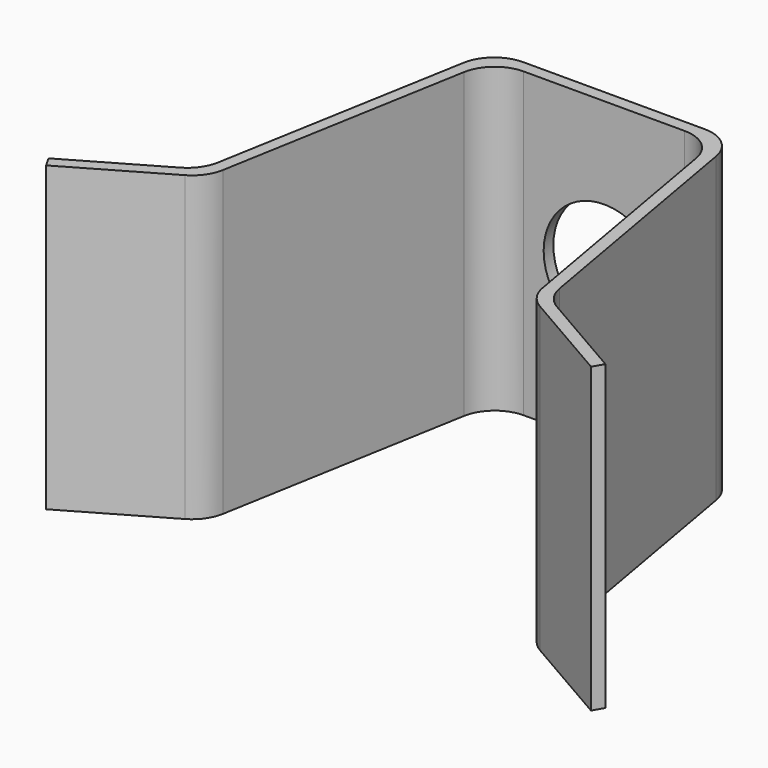
from build123d import *

# Parameters (mm, degrees)
F1_DEPTH = 25
F2_R     = 5
F3_DEPTH = 25


with BuildPart() as f1:
    # F0 (on Top) → F1 (new body)
    with BuildSketch(Plane.XY):
        with BuildLine():
            Line((7.482701, 22.981227), (0, 22.981227))
            Line((0, 22.981227), (-7.482701, 22.981227))
            ThreePointArc((-7.482701, 22.981227), (-9.411064, 22.27936), (-10.437124, 20.502171))
            Line((-10.437124, 20.502171), (-14.098284, -0.261297))
            ThreePointArc((-14.098284, -0.261297), (-14.595251, -1.461082), (-15.552707, -2.338429))
            Line((-15.552707, -2.338429), (-23.001458, -6.638967))
            Line((-23.001458, -6.638967), (-22.501458, -7.504993))
            Line((-22.501458, -7.504993), (-14.648873, -2.9713))
            ThreePointArc((-14.648873, -2.9713), (-13.691417, -2.093953), (-13.19445, -0.894169))
            Line((-13.19445, -0.894169), (-9.598025, 19.502171))
            ThreePointArc((-9.598025, 19.502171), (-8.571964, 21.27936), (-6.643601, 21.981227))
            Line((-6.643601, 21.981227), (0, 21.981227))
            Line((0, 21.981227), (6.643601, 21.981227))
            ThreePointArc((6.643601, 21.981227), (8.571964, 21.27936), (9.598025, 19.502171))
            Line((9.598025, 19.502171), (13.19445, -0.894169))
            ThreePointArc((13.19445, -0.894169), (13.691417, -2.093953), (14.648873, -2.9713))
            Line((14.648873, -2.9713), (22.501458, -7.504993))
            Line((22.501458, -7.504993), (23.001458, -6.638967))
            Line((23.001458, -6.638967), (15.552707, -2.338429))
            ThreePointArc((15.552707, -2.338429), (14.595251, -1.461082), (14.098284, -0.261297))
            Line((14.098284, -0.261297), (10.437124, 20.502171))
            ThreePointArc((10.437124, 20.502171), (9.411064, 22.27936), (7.482701, 22.981227))
        make_face()
    extrude(amount=F1_DEPTH)

    # F2 (on face) → F3 (cut)
    with BuildSketch(Plane(origin=(0, 22.981227, 0), x_dir=(-1, 0, 0), z_dir=(0, 1, 0))):
        with Locations((0, 12.5)):
            Circle(F2_R)
    extrude(amount=-F3_DEPTH, mode=Mode.SUBTRACT)


solid = f1.part
